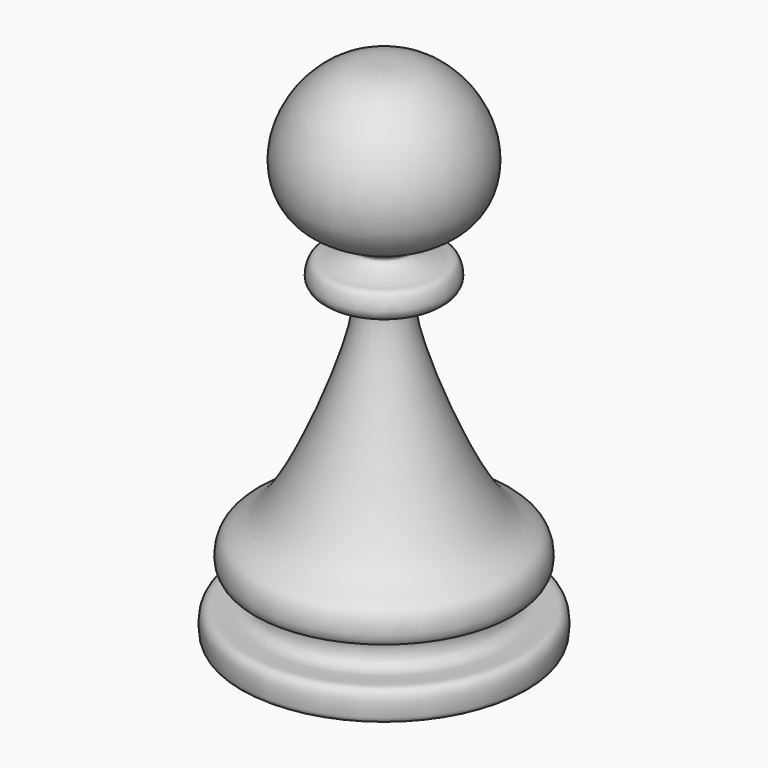
from build123d import *


with BuildPart() as f1:
    # F0 (on Front) → F1 (revolve)
    with BuildSketch(Plane.XZ):
        with BuildLine():
            Line((0, 3.1376471743), (0, 57.1051798761))
            add(Edge.make_bspline(
                [(0, 57.1051798761), (-1.1112076265, 57.1197786428), (-3.5106075534, 57.1513013563), (-7.5223795771, 54.5134388592), (-10.4268469043, 49.0548319424), (-8.7749562821, 42.3877101574), (-1.0741543137, 40.4356636859), (-5.3362300039, 38.7255401648), (-6.2875441591, 38.9147376598), (-7.033352618, 36.3148069186), (-4.6108770786, 35.6519632065), (-2.5359571238, 35.7812000028), (-2.5555547283, 31.4828650204), (-9.718896949, 13.4967613212), (-14.0805626433, 13.4411401343), (-14.3914877814, 8.8931971089), (-10.9312810652, 9.9362521221), (-10.8773744809, 5.6595728828), (-14.3956934566, 6.5192977193), (-15.5120496213, 5.8545348074), (-15.4481567312, 3.3805427714), (-15.0769261385, 3.1951399087), (-14.9618089199, 3.1376471743)],
                knots=[0, 0, 0, 0, 0.0514630819, 0.1111228108, 0.1792168779, 0.249907456, 0.3139967468, 0.358602814, 0.386538896, 0.4252839087, 0.4659721346, 0.5014460065, 0.5535488982, 0.6756553995, 0.7287012436, 0.775830093, 0.8182172795, 0.8626507835, 0.9099244315, 0.9397542943, 0.981318032, 1, 1, 1, 1], degree=3))
            Line((-14.9618089199, 3.1376471743), (0, 3.1376471743))
        make_face()
    revolve(axis=Axis((0, 0, 21.9635274261), (0, 0, -1)))


solid = f1.part
